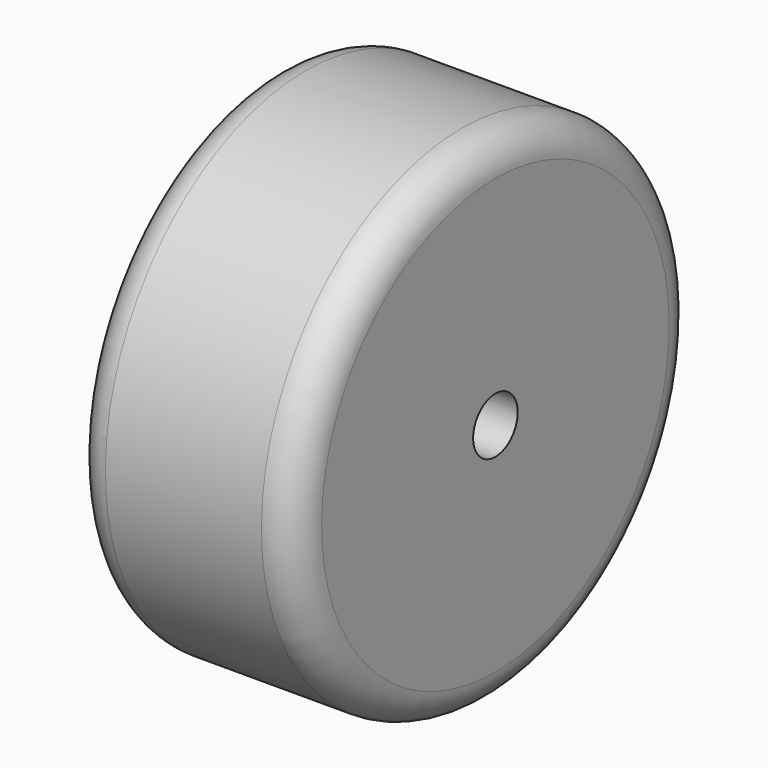
from build123d import *

# Parameters (mm, degrees)
F3_D = 6.35


with BuildPart() as f1:
    # F0 (on Front) → F1 (revolve)
    with BuildSketch(Plane.XZ):
        with BuildLine():
            Line((5.798491, 12.48096), (-11.981509, 12.48096))
            ThreePointArc((-11.981509, 12.48096), (-14.675586, 11.365037), (-15.791509, 8.67096))
            Line((-15.791509, 8.67096), (-15.791509, -16.09404))
            Line((-15.791509, -16.09404), (9.608491, -16.09404))
            Line((9.608491, -16.09404), (9.608491, 8.67096))
            ThreePointArc((9.608491, 8.67096), (8.492568, 11.365037), (5.798491, 12.48096))
        make_face()
    revolve(axis=Axis((7.820527, 0, -16.09404), (1, 0, 0)))

    # F3 (through all)
    with Locations(Plane.YZ.offset(9.608491)):
        with Locations((0, -16.09404)):
            Hole(F3_D / 2)


solid = f1.part
